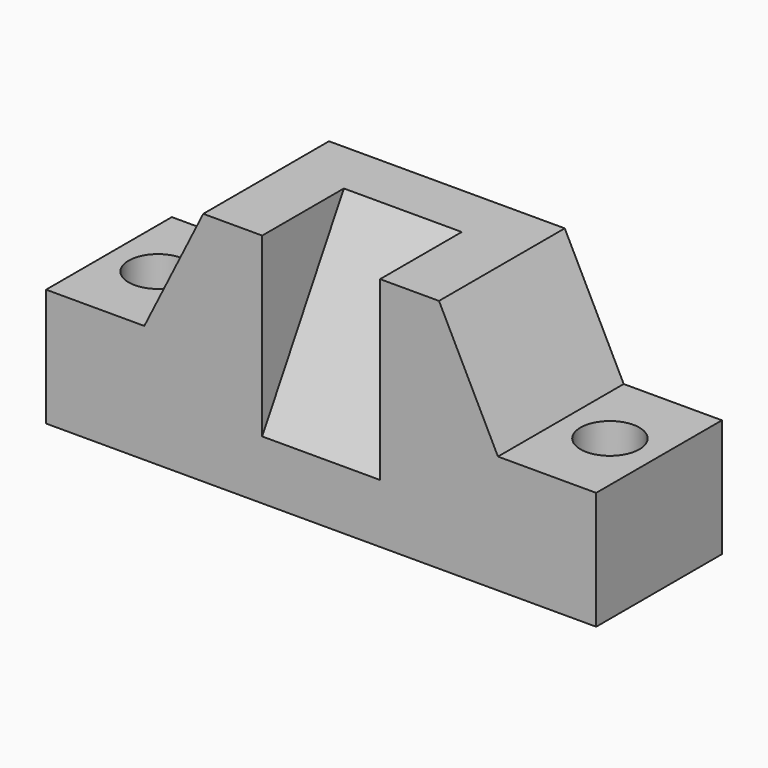
from build123d import *

# Parameters (mm, degrees)
PAD001_DEPTH = 15
PAD_DEPTH    = 40
SKETCH002_R  = 7.5
POCKET_DEPTH = 344.961315


with BuildPart() as pad001:
    # Sketch001 → Pad001 (new body, symmetric)
    with BuildSketch(Plane.YZ):
        Polygon((0, 15), (34.090678, 74.046786), (0, 74.046786), align=None)
    extrude(amount=PAD001_DEPTH, both=True)


with BuildPart() as mirrored:
    # Sketch → Pad (new body)
    with BuildSketch(Plane.XZ):
        Polygon((-70, 0), (70, 0), (70, 30), (45, 30), (30, 60), (-30, 60), (-45, 30), (-70, 30), align=None)
    extrude(amount=-PAD_DEPTH)

    # Cut: cut Pad001
    add(pad001.part, mode=Mode.SUBTRACT)

    # Sketch002 → Pocket (cut, through all)
    with BuildSketch(Plane.XY.offset(30)):
        with Locations((57.5, 20)):
            Circle(SKETCH002_R)
    pocket = extrude(amount=-POCKET_DEPTH, mode=Mode.SUBTRACT)

    # Mirrored: Pocket across Sketch002 V_Axis
    add(pocket.mirror(Plane(origin=(0, 0, 30), x_dir=(0, 0, 1), z_dir=(1, 0, 0))), mode=Mode.SUBTRACT)


solid = mirrored.part
